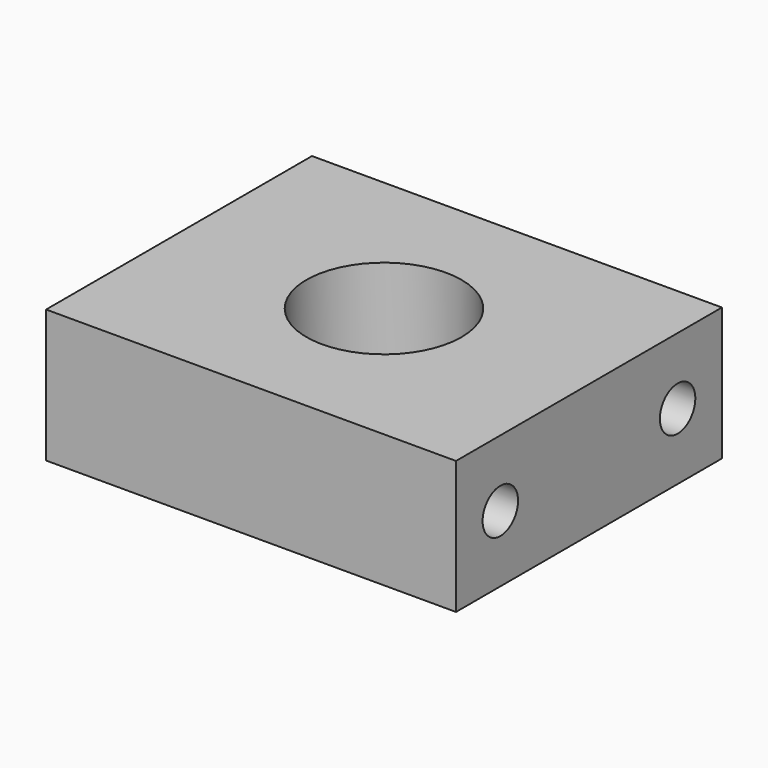
from build123d import *

# Parameters (mm, degrees)
F0_W     = 37
F0_H     = 30
F1_DEPTH = 12
F2_R     = 7
F3_DEPTH = 10
F4_R     = 2
F5_DEPTH = 8
F6_R     = 2
F7_DEPTH = 8
F8_R     = 6
F9_DEPTH = 25


with BuildPart() as f1:
    # F0 (on Top) → F1 (new body)
    with BuildSketch(Plane.XY):
        with Locations((18.5, -15)):
            Rectangle(F0_W, F0_H)
    extrude(amount=F1_DEPTH)

    # F2 (on face) → F3 (cut)
    with BuildSketch(Plane.XY.offset(12)):
        with Locations((18.5, -15)):
            Circle(F2_R)
    extrude(amount=-F3_DEPTH, mode=Mode.SUBTRACT)

    # F4 (on face) → F5 (cut)
    with BuildSketch(Plane.YZ.offset(37)):
        with Locations((-5, 6)):
            Circle(F4_R)
        with Locations((-25, 6)):
            Circle(F4_R)
    extrude(amount=-F5_DEPTH, mode=Mode.SUBTRACT)

    # F6 (on face) → F7 (cut)
    with BuildSketch(Plane(origin=(0, 0, 0), x_dir=(0, -1, 0), z_dir=(-1, 0, 0))):
        with Locations((25, 6)):
            Circle(F6_R)
        with Locations((5, 6)):
            Circle(F6_R)
    extrude(amount=-F7_DEPTH, mode=Mode.SUBTRACT)

    # F8 (on face) → F9 (cut)
    with BuildSketch(Plane.XY.offset(2)):
        with Locations((18.5, -15)):
            Circle(F8_R)
    extrude(amount=-F9_DEPTH, mode=Mode.SUBTRACT)


solid = f1.part
